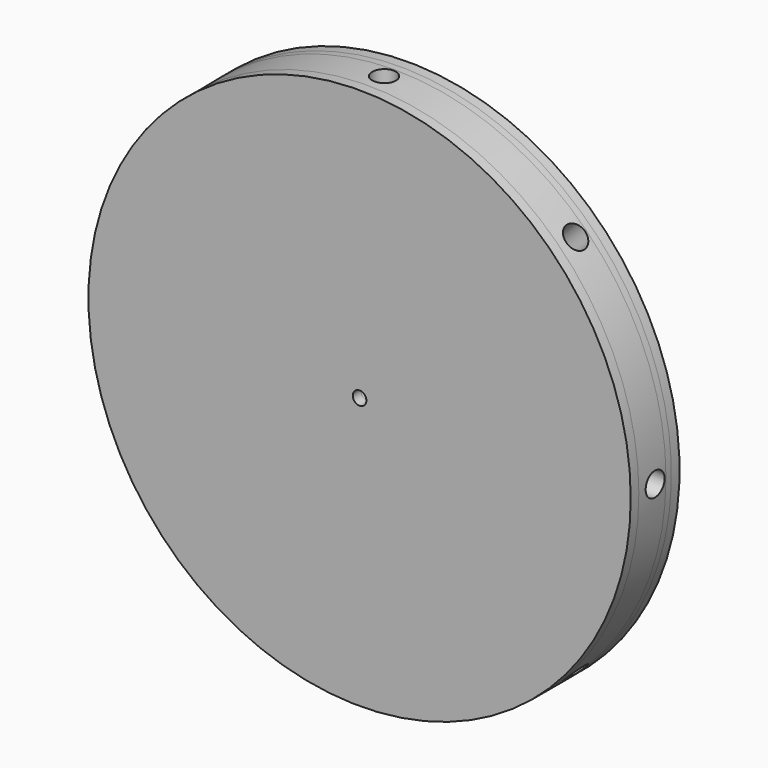
from build123d import *

# Parameters (mm, degrees)
F0_R      = 63.5
F1_DEPTH  = 6.35
F2_R      = 1.5875
F3_DEPTH  = 6.351
F6_R      = 2.778125
F7_DEPTH  = 44.45
F8_COUNT  = 8
F10_DEPTH = 1.5875
F4_R      = 63.5
F4_R_2    = 1.5875
F11_DEPTH = 1.5875
F12_DEPTH = 2.38125
F13_DEPTH = 2.38125


with BuildPart() as f1:
    # F0 (on Front) → F1 (new body)
    with BuildSketch(Plane.XZ):
        Circle(F0_R)
    extrude(amount=F1_DEPTH)

    # F2 (on face) → F3 (cut, through all)
    with BuildSketch(Plane.XZ.offset(6.35)):
        Circle(F2_R)
    extrude(amount=-F3_DEPTH, mode=Mode.SUBTRACT)


with BuildPart() as f7:
    # F6 (on line) → F7 (new body)
    with BuildSketch(Plane.YZ.offset(63.5)):
        with Locations((-3.175, 0)):
            Circle(F6_R)
    extrude(amount=-F7_DEPTH)


with BuildPart() as f8_1:
    # F8: instance of F7
    add(f7.part.rotate(Axis((0, -6.35, 0), (0, -1, 0)), 1 * 360 / F8_COUNT))


with BuildPart() as f8_2:
    # F8: instance of F7
    add(f7.part.rotate(Axis((0, -6.35, 0), (0, -1, 0)), 2 * 360 / F8_COUNT))


with BuildPart() as f8_3:
    # F8: instance of F7
    add(f7.part.rotate(Axis((0, -6.35, 0), (0, -1, 0)), 3 * 360 / F8_COUNT))


with BuildPart() as f8_4:
    # F8: instance of F7
    add(f7.part.rotate(Axis((0, -6.35, 0), (0, -1, 0)), 4 * 360 / F8_COUNT))


with BuildPart() as f8_5:
    # F8: instance of F7
    add(f7.part.rotate(Axis((0, -6.35, 0), (0, -1, 0)), 5 * 360 / F8_COUNT))


with BuildPart() as f8_6:
    # F8: instance of F7
    add(f7.part.rotate(Axis((0, -6.35, 0), (0, -1, 0)), 6 * 360 / F8_COUNT))


with BuildPart() as f8_7:
    # F8: instance of F7
    add(f7.part.rotate(Axis((0, -6.35, 0), (0, -1, 0)), 7 * 360 / F8_COUNT))


with BuildPart() as f1_1:
    add(f1.part)

    # F9: cut F8_1, F7, F8_7, F8_2, F8_3, F8_4, F8_5, F8_6
    add(f8_1.part, mode=Mode.SUBTRACT)
    add(f7.part, mode=Mode.SUBTRACT)
    add(f8_7.part, mode=Mode.SUBTRACT)
    add(f8_2.part, mode=Mode.SUBTRACT)
    add(f8_3.part, mode=Mode.SUBTRACT)
    add(f8_4.part, mode=Mode.SUBTRACT)
    add(f8_5.part, mode=Mode.SUBTRACT)
    add(f8_6.part, mode=Mode.SUBTRACT)

    # F10 (add): a face of the model
    f10_faces = [f1_1.faces().sort_by_distance(p)[0] for p in [
        (-61.7039487758, -6.35, 0),
    ]]
    extrude(f10_faces, amount=F10_DEPTH)

    # F4 (on face) → F11 (join)
    with BuildSketch(Plane(origin=(0, 0, 0), x_dir=(-1, 0, 0), z_dir=(0, 1, 0))):
        Circle(F4_R)
        Circle(F4_R_2, mode=Mode.SUBTRACT)
    extrude(amount=F11_DEPTH)

    # F12 (add): a face of the model
    f12_faces = [f1_1.faces().sort_by_distance(p)[0] for p in [
        (-61.7039487758, -7.9375, 0),
    ]]
    extrude(f12_faces, amount=F12_DEPTH)

    # F13 (add): a face of the model
    f13_faces = [f1_1.faces().sort_by_distance(p)[0] for p in [
        (61.7039487758, 1.5875, 0),
    ]]
    extrude(f13_faces, amount=F13_DEPTH)


solid = f1_1.part
